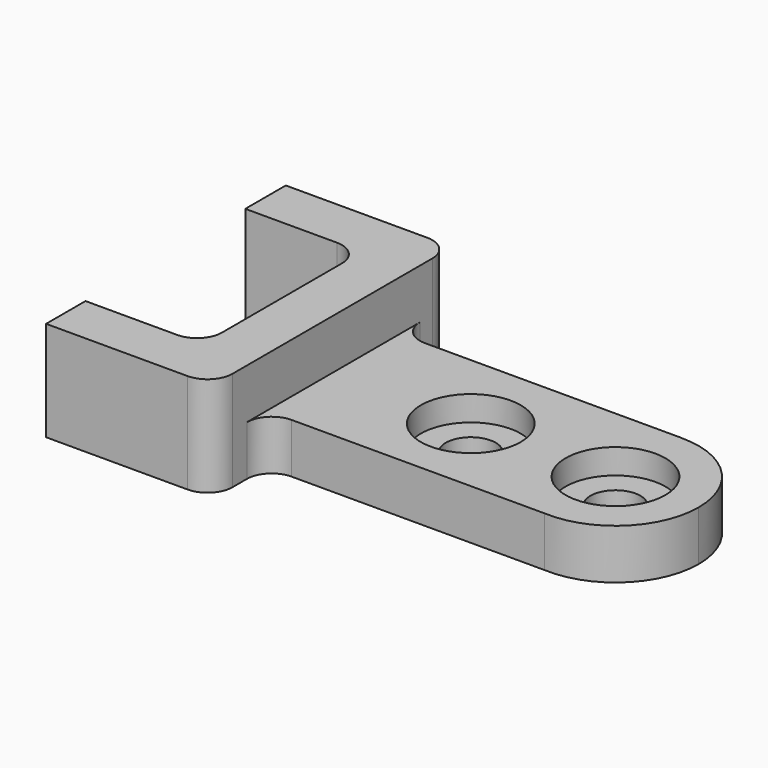
from build123d import *

# Parameters (mm, degrees)
F0_W      = 20
F0_H      = 36
F1_DEPTH  = 12
F2_W      = 14
F2_H      = 24
F3_DEPTH  = 25
F4_R      = 3
F5_R      = 3
F6_W      = 34
F6_H      = 20
F7_DEPTH  = 6
F8_R      = 3
F9_R      = 3
F12_DEPTH = 6
F13_R     = 6
F14_DEPTH = 3
F15_R     = 6
F16_DEPTH = 3
F17_R     = 3
F18_DEPTH = 3
F19_R     = 3
F20_DEPTH = 3


with BuildPart() as f1:
    # F0 (on Top) → F1 (new body)
    with BuildSketch(Plane.XY):
        with Locations((-50.7072380185, 9.4144733921)):
            Rectangle(F0_W, F0_H)
    extrude(amount=F1_DEPTH)

    # F2 (on face) → F3 (cut)
    with BuildSketch(Plane.XY.offset(12)):
        with Locations((-53.7072380185, 9.3355261609)):
            Rectangle(F2_W, F2_H)
    extrude(amount=-F3_DEPTH, mode=Mode.SUBTRACT)

    # F4
    f4_edges = [f1.edges().sort_by_distance(p)[0] for p in [
        (-40.707238, -8.585527, 6),
    ]]
    fillet(f4_edges, radius=F4_R)

    # F5
    f5_edges = [f1.edges().sort_by_distance(p)[0] for p in [
        (-40.707238, 27.414473, 6),
        (-46.707238, -2.664474, 6),
        (-46.707238, 21.335526, 6),
    ]]
    fillet(f5_edges, radius=F5_R)

    # F6 (on Top) → F7 (join)
    with BuildSketch(Plane.XY):
        with Locations((-23.8486053348, 9.5559203671)):
            Rectangle(F6_W, F6_H)
    extrude(amount=F7_DEPTH)

    # F8
    f8_edges = [f1.edges().sort_by_distance(p)[0] for p in [
        (-40.707238, 19.55592, 3),
    ]]
    fillet(f8_edges, radius=F8_R)

    # F9
    f9_edges = [f1.edges().sort_by_distance(p)[0] for p in [
        (-40.707238, -0.44408, 3),
    ]]
    fillet(f9_edges, radius=F9_R)

    # F11 (on face) → F12 (join)
    with BuildSketch(Plane.XY.offset(6)):
        with BuildLine():
            ThreePointArc((-7.331625772, -0.4440796329), (0.0823230872, 2.2840744477), (3.2027962059, 9.5416298136))
            ThreePointArc((3.2027962059, 9.5416298136), (0.2556674153, 16.630847521), (-6.8486053348, 19.5414977068))
            Line((-6.8486053348, 19.5414977068), (-6.8486053348, 9.5559203671))
            Line((-6.8486053348, 9.5559203671), (-6.8486053348, -0.4440796329))
            Line((-6.8486053348, -0.4440796329), (-7.331625772, -0.4440796329))
        make_face()
    extrude(amount=-F12_DEPTH)

    # F13 (on face) → F14 (cut)
    with BuildSketch(Plane.XY.offset(6)):
        with Locations((-6.7972037941, 9.5416298136)):
            Circle(F13_R)
    extrude(amount=-F14_DEPTH, mode=Mode.SUBTRACT)

    # F15 (on face) → F16 (cut)
    with BuildSketch(Plane.XY.offset(6)):
        with Locations((-24.1282898933, 9.4736851752)):
            Circle(F15_R)
    extrude(amount=-F16_DEPTH, mode=Mode.SUBTRACT)

    # F17 (on face) → F18 (cut)
    with BuildSketch(Plane.XY.offset(3)):
        with Locations((-24.1282898933, 9.4736851752)):
            Circle(F17_R)
    extrude(amount=-F18_DEPTH, mode=Mode.SUBTRACT)

    # F19 (on face) → F20 (cut)
    with BuildSketch(Plane.XY.offset(3)):
        with Locations((-6.7972037941, 9.5416298136)):
            Circle(F19_R)
    extrude(amount=-F20_DEPTH, mode=Mode.SUBTRACT)


solid = f1.part
